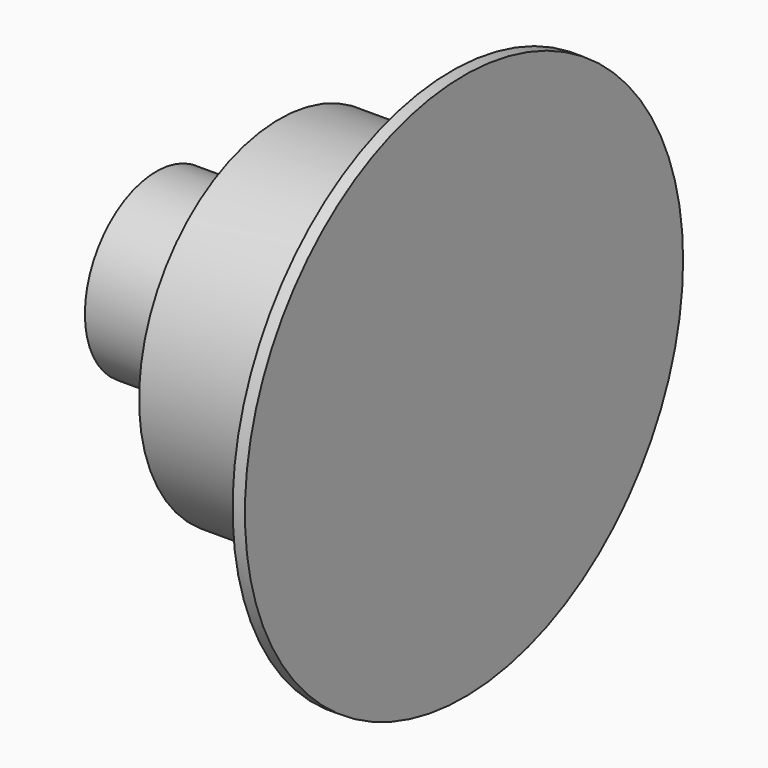
from build123d import *

# Parameters (mm, degrees)
F0_R     = 2.85
F1_DEPTH = 3
F2_SIZE2 = 0.6
F2_SIZE  = 0.4
F3_R     = 1.45
F4_DEPTH = 2
F5_R     = 1.95
F5_R_2   = 1.45
F6_DEPTH = 0.5
F7_SIZE  = 0.2
F8_R     = 4.45
F8_R_2   = 2.45
F9_DEPTH = 0.2


with BuildPart() as f1:
    # F0 (on Right) → F1 (new body)
    with BuildSketch(Plane.YZ):
        Circle(F0_R)
    extrude(amount=F1_DEPTH)

    # F2
    f2_edges = [f1.edges().sort_by_distance(p)[0] for p in [
        (3, -2.85, 0),
    ]]
    f2_side = f1.faces().sort_by_distance((3, 0, 0))[0]
    chamfer(f2_edges, length=F2_SIZE, length2=F2_SIZE2, reference=f2_side)

    # F3 (on face) → F4 (join)
    with BuildSketch(Plane(origin=(0, 0, 0), x_dir=(0, -1, 0), z_dir=(-1, 0, 0))):
        Circle(F3_R)
    extrude(amount=F4_DEPTH)

    # F5 (on face) → F6 (cut)
    with BuildSketch(Plane(origin=(0, 0, 0), x_dir=(0, -1, 0), z_dir=(-1, 0, 0))):
        Circle(F5_R)
        Circle(F5_R_2, mode=Mode.SUBTRACT)
    extrude(amount=-F6_DEPTH, mode=Mode.SUBTRACT)

    # F7
    f7_edges = [f1.edges().sort_by_distance(p)[0] for p in [
        (0.5, 1.95, 0),
    ]]
    chamfer(f7_edges, length=F7_SIZE)

    # F8 (on face) → F9 (join)
    with BuildSketch(Plane.YZ.offset(3)):
        Circle(F8_R)
        Circle(F8_R_2, mode=Mode.SUBTRACT)
    extrude(amount=-F9_DEPTH)


solid = f1.part
